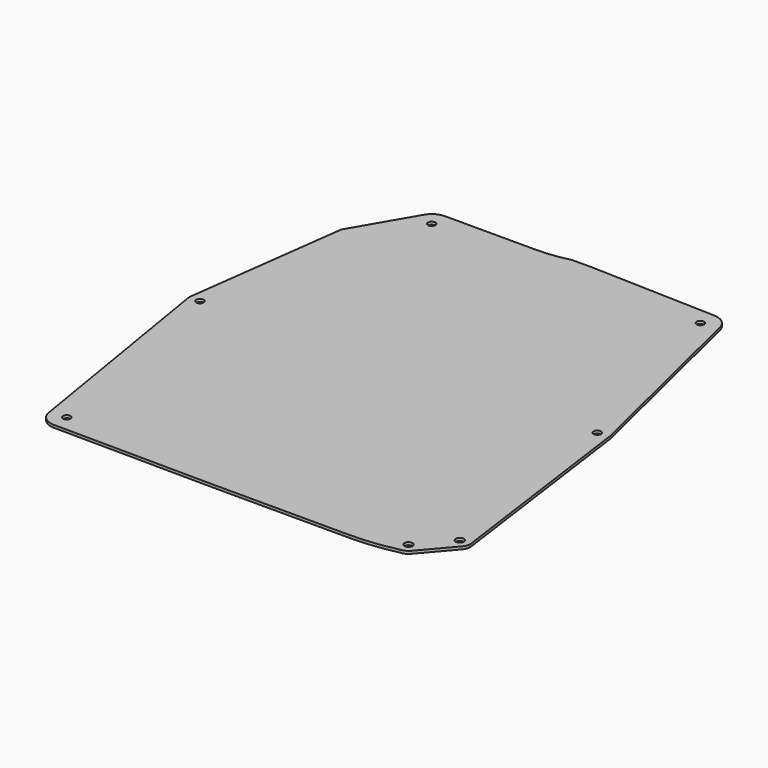
from build123d import *

# Parameters (mm, degrees)
F0_R     = 4.445
F0_R_2   = 4.826
F1_DEPTH = 3.175


with BuildPart() as f1:
    # F0 (on Top) → F1 (new body)
    with BuildSketch(Plane.XY):
        with BuildLine():
            Line((-63.881, 553.8978), (-171.831, 553.8978))
            ThreePointArc((-171.831, 553.8978), (-157.911603, 548.132197), (-152.146, 534.2128))
            ThreePointArc((-152.146, 534.2128), (-176.957475, 515.207052), (-188.845871, 544.111962))
            Line((-188.845871, 544.111962), (-230.1748, 473.075))
            Line((-230.1748, 473.075), (-255.163822, 281.038792))
            ThreePointArc((-255.163822, 281.038792), (-241.748886, 292.073428), (-229.87, 279.4))
            ThreePointArc((-229.87, 279.4), (-241.533898, 266.742335), (-255.100944, 277.334704))
            Line((-255.100944, 277.334704), (-212.279225, 17.518903))
            ThreePointArc((-212.279225, 17.518903), (-194.922014, 39.750575), (-174.1805, 20.6375))
            ThreePointArc((-174.1805, 20.6375), (-179.848602, 7.026218), (-193.502293, 1.461047))
            Line((-193.502293, 1.461047), (0, 0))
            Line((0, 0), (158.75, 0))
            ThreePointArc((158.75, 0), (186.139747, 1.581448), (213.165464, 6.304773))
            ThreePointArc((213.165464, 6.304773), (203.640017, 27.9319), (225.5393, 19.05))
            ThreePointArc((225.5393, 19.05), (224.747937, 14.627924), (222.472079, 10.754749))
            Line((222.472079, 10.754749), (253.855569, 47.390713))
            ThreePointArc((253.855569, 47.390713), (232.76785, 58.830401), (256.692111, 57.044866))
            Line((256.692111, 57.044866), (222.55606, 305.04815))
            ThreePointArc((222.55606, 305.04815), (222.650328, 304.132476), (222.6818, 303.2125))
            ThreePointArc((222.6818, 303.2125), (195.853277, 301.612028), (222.301246, 306.390742))
            Line((222.301246, 306.390742), (165.806349, 538.920196))
            ThreePointArc((165.806349, 538.920196), (166.228586, 536.583311), (166.37, 534.2128))
            ThreePointArc((166.37, 534.2128), (132.110556, 520.338774), (147.062251, 554.141805))
            Line((147.062251, 554.141805), (0, 558.8))
            Line((0, 558.8), (-25.4, 558.8))
            ThreePointArc((-25.4, 558.8), (-44.485002, 555.128282), (-63.881, 553.8978))
        make_face()
        with BuildLine():
            ThreePointArc((-174.1805, 20.6375), (-194.922014, 39.750575), (-212.279225, 17.518903))
            ThreePointArc((-212.279225, 17.518903), (-205.821316, 6.063186), (-193.502293, 1.461047))
            ThreePointArc((-193.502293, 1.461047), (-179.848602, 7.026218), (-174.1805, 20.6375))
        make_face()
        with Locations((-193.3575, 20.6375)):
            Circle(F0_R, mode=Mode.SUBTRACT)
        with BuildLine():
            ThreePointArc((-229.87, 279.4), (-241.748886, 292.073428), (-255.163822, 281.038792))
            ThreePointArc((-255.163822, 281.038792), (-255.268171, 279.184443), (-255.100944, 277.334704))
            ThreePointArc((-255.100944, 277.334704), (-241.533898, 266.742335), (-229.87, 279.4))
        make_face()
        with Locations((-242.57, 279.4)):
            Circle(F0_R, mode=Mode.SUBTRACT)
        with BuildLine():
            ThreePointArc((222.55606, 305.04815), (222.4457, 305.722682), (222.301246, 306.390742))
            ThreePointArc((222.301246, 306.390742), (195.853277, 301.612028), (222.6818, 303.2125))
            ThreePointArc((222.6818, 303.2125), (222.650328, 304.132476), (222.55606, 305.04815))
        make_face()
        with Locations((209.2198, 303.2125)):
            Circle(F0_R, mode=Mode.SUBTRACT)
        with BuildLine():
            ThreePointArc((256.8067, 55.372), (256.778019, 56.210393), (256.692111, 57.044866))
            ThreePointArc((256.692111, 57.044866), (232.76785, 58.830401), (253.855569, 47.390713))
            ThreePointArc((253.855569, 47.390713), (256.045289, 51.117293), (256.8067, 55.372))
        make_face()
        with Locations((244.5385, 55.372)):
            Circle(F0_R_2, mode=Mode.SUBTRACT)
        with BuildLine():
            ThreePointArc((225.5393, 19.05), (203.640017, 27.9319), (213.165464, 6.304773))
            ThreePointArc((213.165464, 6.304773), (218.288882, 7.546579), (222.472079, 10.754749))
            ThreePointArc((222.472079, 10.754749), (224.747937, 14.627924), (225.5393, 19.05))
        make_face()
        with Locations((212.7885, 19.05)):
            Circle(F0_R_2, mode=Mode.SUBTRACT)
        with BuildLine():
            ThreePointArc((165.806349, 538.920196), (159.000421, 549.690958), (147.062251, 554.141805))
            ThreePointArc((147.062251, 554.141805), (132.110556, 520.338774), (166.37, 534.2128))
            ThreePointArc((166.37, 534.2128), (166.228586, 536.583311), (165.806349, 538.920196))
        make_face()
        with Locations((146.431, 534.2128)):
            Circle(F0_R, mode=Mode.SUBTRACT)
        with BuildLine():
            ThreePointArc((-152.146, 534.2128), (-157.911603, 548.132197), (-171.831, 553.8978))
            ThreePointArc((-171.831, 553.8978), (-181.645128, 551.276859), (-188.845871, 544.111962))
            ThreePointArc((-188.845871, 544.111962), (-176.957475, 515.207052), (-152.146, 534.2128))
        make_face()
        with BuildLine():
            ThreePointArc((-171.831, 538.6578), (-168.68791, 537.35589), (-167.386, 534.2128))
            ThreePointArc((-167.386, 534.2128), (-174.97409, 531.06971), (-171.831, 538.6578))
        make_face(mode=Mode.SUBTRACT)
    extrude(amount=F1_DEPTH)


solid = f1.part
